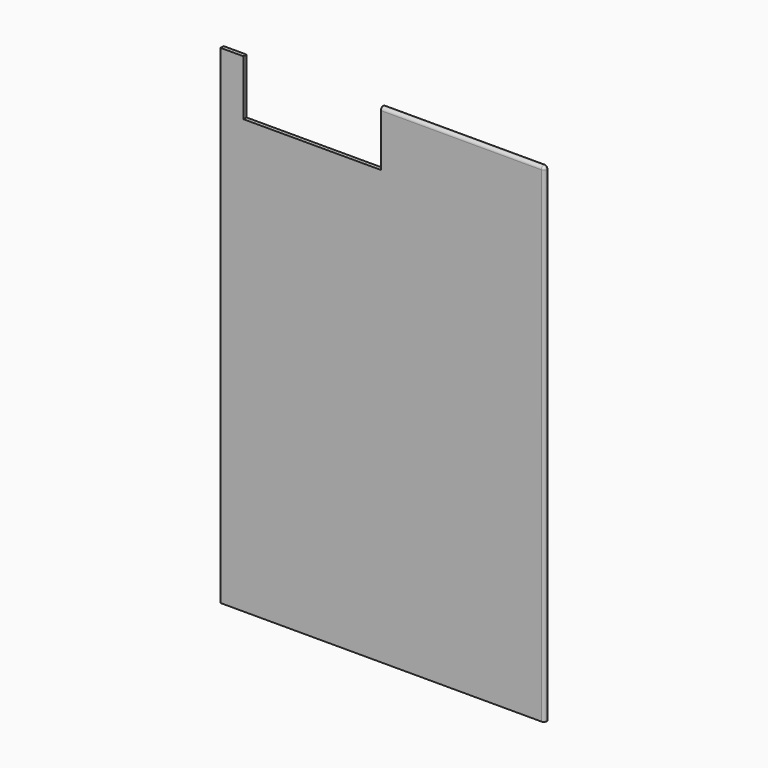
from build123d import *

# Parameters (mm, degrees)
F1_DEPTH = 12.7
F2_R     = 10.16
F3_R     = 10.16


with BuildPart() as f1:
    # F0 (on Front) → F1 (new body)
    with BuildSketch(Plane.XZ):
        Polygon((-538.48, -812.8), (538.48, -812.8), (538.48, 812.8), (-5.08, 812.8), (-5.08, 628.65), (-462.28, 628.65), (-462.28, 812.8), (-538.48, 812.8), align=None)
    extrude(amount=F1_DEPTH)

    # F2
    f2_edges = [f1.edges().sort_by_distance(p)[0] for p in [
        (266.7, -12.7, 812.8),
    ]]
    fillet(f2_edges, radius=F2_R)

    # F3
    f3_edges = [f1.edges().sort_by_distance(p)[0] for p in [
        (538.48, -12.7, -5.08),
    ]]
    fillet(f3_edges, radius=F3_R)


solid = f1.part
